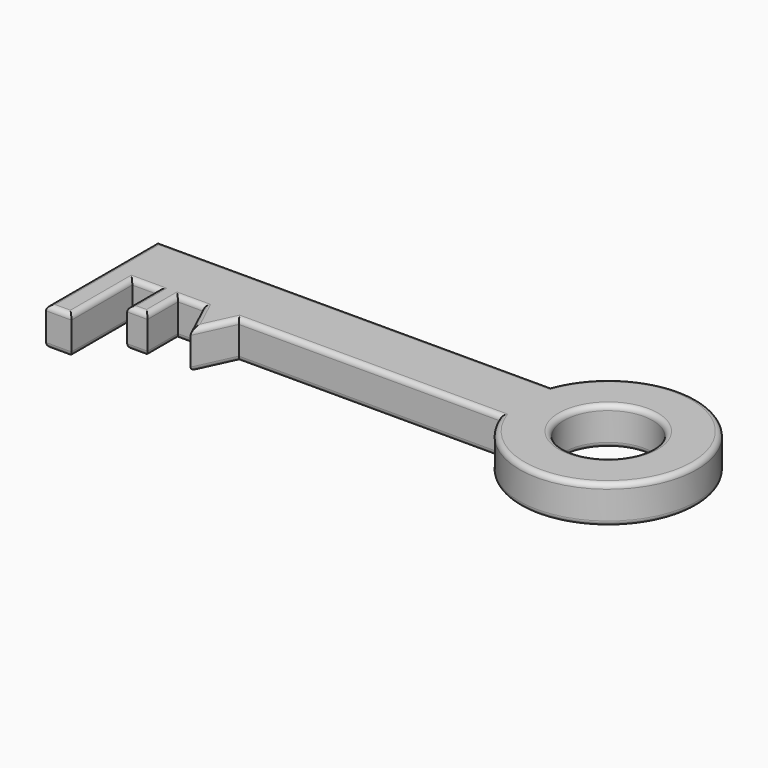
from build123d import *

# Parameters (mm, degrees)
F0_R     = 17.5
F0_W     = 10
F0_H     = 30
F0_W_2   = 8
F0_H_2   = 15
F1_DEPTH = 15
F2_R     = 2


with BuildPart() as f1:
    # F0 (on Top) → F1 (new body)
    with BuildSketch(Plane.XY):
        with BuildLine():
            ThreePointArc((13.3847525716, -1.8715982139), (81.0764946481, 10.6284017861), (13.3847525716, 23.1284017861))
            Line((13.3847525716, 23.1284017861), (-141.6152474284, 23.1284017861))
            Line((-141.6152474284, 23.1284017861), (-141.6152474284, -1.8715982139))
            Line((-141.6152474284, -1.8715982139), (-131.6152474284, -1.8715982139))
            Line((-131.6152474284, -1.8715982139), (-121.6152474284, -1.8715982139))
            Line((-121.6152474284, -1.8715982139), (-113.6152474284, -1.8715982139))
            Line((-113.6152474284, -1.8715982139), (-103.6152474284, -1.8715982139))
            Line((-103.6152474284, -1.8715982139), (-89.6152474284, -1.8715982139))
            Line((-89.6152474284, -1.8715982139), (13.3847525716, -1.8715982139))
        make_face()
        with Locations((46.0764946481, 10.6284017861)):
            Circle(F0_R, mode=Mode.SUBTRACT)
        with Locations((-136.6152474284, -16.8715982139)):
            Rectangle(F0_W, F0_H)
        with Locations((-117.6152474284, -9.3715982139)):
            Rectangle(F0_W_2, F0_H_2)
        Polygon((-96.6152474284, -16.8715982139), (-89.6152474284, -1.8715982139), (-103.6152474284, -1.8715982139), align=None)
    extrude(amount=F1_DEPTH)

    # F2
    f2_edges = [f1.edges().sort_by_distance(p)[0] for p in [
        (28.576495, 10.628402, 15),
        (81.076495, 10.628402, 15),
        (-64.115247, 23.128402, 15),
        (-38.115247, -1.871598, 15),
        (-93.115247, -9.371598, 15),
        (-108.615247, -1.871598, 15),
        (-113.615247, -9.371598, 15),
        (-117.615247, -16.871598, 15),
        (-100.115247, -9.371598, 15),
        (-126.615247, -1.871598, 15),
        (-121.615247, -9.371598, 15),
        (-131.615247, -16.871598, 15),
        (-141.615247, -4.371598, 15),
        (-136.615247, -31.871598, 15),
        (28.576495, 10.628402, 0),
        (-93.115247, -9.371598, 0),
        (-100.115247, -9.371598, 0),
        (-38.115247, -1.871598, 0),
        (-141.615247, -4.371598, 0),
        (-64.115247, 23.128402, 0),
        (81.076495, 10.628402, 0),
        (-117.615247, -16.871598, 0),
        (-136.615247, -31.871598, 0),
        (-126.615247, -1.871598, 0),
        (-108.615247, -1.871598, 0),
        (-113.615247, -9.371598, 0),
        (-131.615247, -16.871598, 0),
        (-121.615247, -9.371598, 0),
    ]]
    fillet(f2_edges, radius=F2_R)


solid = f1.part
